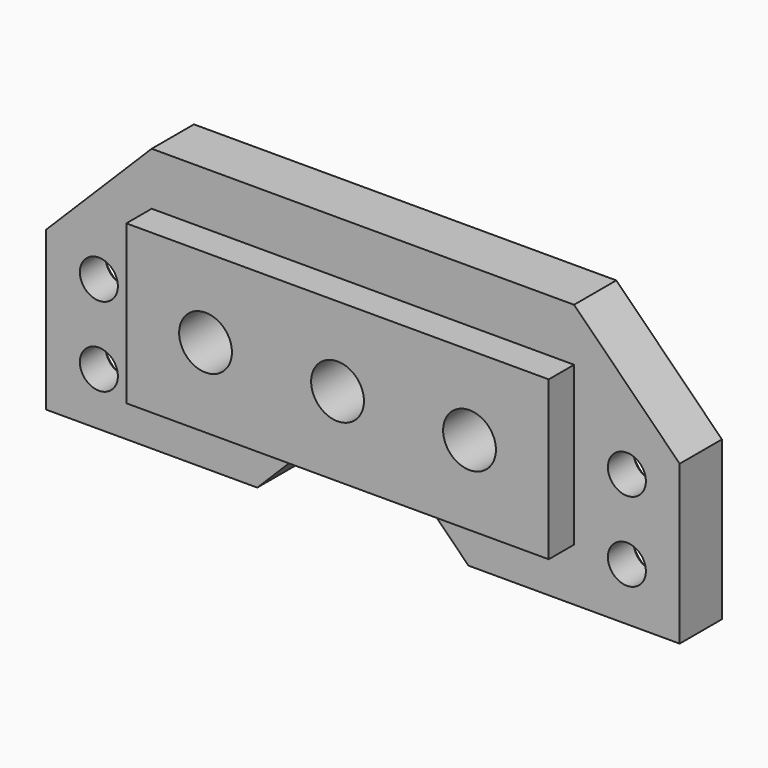
from build123d import *

# Parameters (mm, degrees)
PAD017_DEPTH        = 5
HOLE001_D           = 3.6
HOLE001_DEPTH       = 25
HOLE001_CSINK_D     = 7.5
HOLE001_CSINK_ANGLE = 90
SKETCH026_W         = 40
SKETCH026_H         = 15
PAD018_DEPTH        = 3
SKETCH027_R         = 2.5
POCKET006_DEPTH     = 5


with BuildPart() as part:
    # Sketch024 → Pad017 (new body)
    with BuildSketch(Plane.XZ.offset(-70)):
        Polygon((-30, -20), (-30, -35), (-10, -35), (-5, -30), (5, -30), (10, -35), (30, -35), (30, -20), (20, -10), (-20, -10), align=None)
    extrude(amount=-PAD017_DEPTH)

    # Hole001
    with Locations(Plane(origin=(0, 75, 0), x_dir=(1, 0, 0), z_dir=(0, 1, 0))):
        with Locations((25, 22.5), (25, 30), (-25, 30), (-25, 22.5)):
            CounterSinkHole(HOLE001_D / 2, HOLE001_CSINK_D / 2, depth=HOLE001_DEPTH, counter_sink_angle=HOLE001_CSINK_ANGLE)

    # Sketch026 → Pad018 (join)
    with BuildSketch(Plane.XZ.offset(-70)):
        with Locations((0, -22.5)):
            Rectangle(SKETCH026_W, SKETCH026_H)
    extrude(amount=PAD018_DEPTH)

    # Sketch027 → Pocket006 (cut)
    with BuildSketch(Plane.XZ.offset(-72)):
        with Locations((-12.5, -22.5)):
            Circle(SKETCH027_R)
        with Locations((0, -22.5)):
            Circle(SKETCH027_R)
        with Locations((12.5, -22.5)):
            Circle(SKETCH027_R)
    extrude(amount=POCKET006_DEPTH, mode=Mode.SUBTRACT)


solid = part.part
